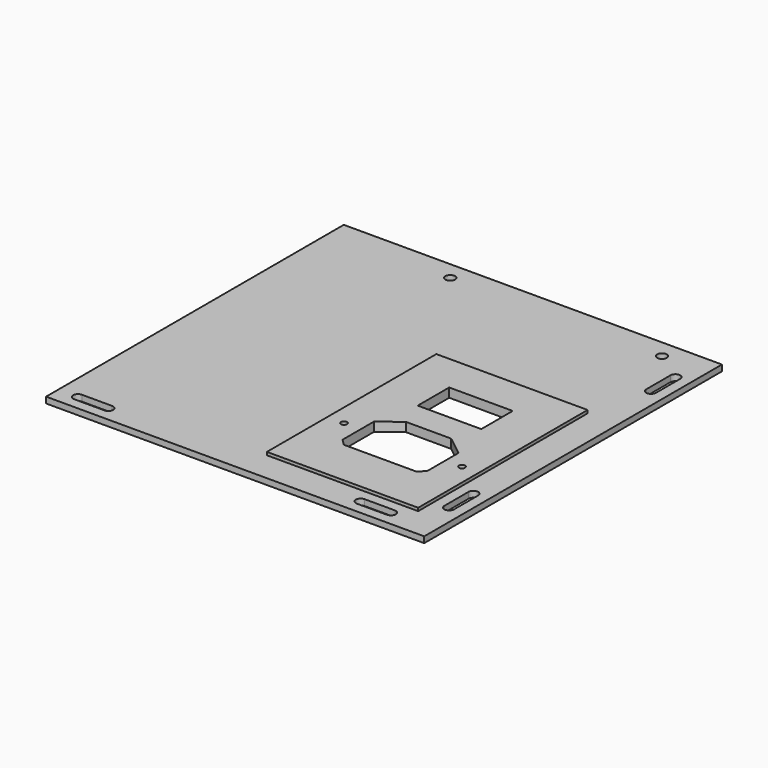
from build123d import *

# Parameters (mm, degrees)
SKETCH_W        = 125
SKETCH_H        = 123
PAD_DEPTH       = 2
SKETCH001_W     = 50
SKETCH001_H     = 70
PAD001_DEPTH    = 3
POCKET_DEPTH    = 3.001
POCKET001_DEPTH = 3.001
SKETCH004_R     = 1.6
POCKET002_DEPTH = 3.001
SKETCH005_R     = 1.6
POCKET003_DEPTH = 3.001
POCKET004_DEPTH = 3.001
SKETCH007_R     = 1
POCKET005_DEPTH = 3.001
SKETCH008_R     = 1
POCKET006_DEPTH = 3.001
SKETCH009_W     = 21
SKETCH009_H     = 13
POCKET007_DEPTH = 3.001
POCKET008_DEPTH = 3.001
POCKET009_DEPTH = 3.001


with BuildPart() as part:
    # Sketch → Pad (new body)
    with BuildSketch(Plane.XY):
        with Locations((62.5, 61.5)):
            Rectangle(SKETCH_W, SKETCH_H)
    extrude(amount=PAD_DEPTH)

    # Sketch001 → Pad001 (join)
    with BuildSketch(Plane.XY):
        with Locations((90, 45)):
            Rectangle(SKETCH001_W, SKETCH001_H)
    extrude(amount=PAD001_DEPTH)

    # Sketch002 → Pocket (cut, through all)
    with BuildSketch(Plane.XY):
        with BuildLine():
            ThreePointArc((6.55, 6.6), (4.95, 5), (6.55, 3.4))
            Line((6.55, 3.4), (16.55, 3.4))
            ThreePointArc((16.55, 3.4), (18.15, 5), (16.55, 6.6))
            Line((6.55, 6.6), (16.55, 6.6))
        make_face()
    extrude(amount=POCKET_DEPTH, mode=Mode.SUBTRACT)

    # Sketch003 → Pocket001 (cut, through all)
    with BuildSketch(Plane.XY):
        with BuildLine():
            ThreePointArc((121.6, 26.55), (120, 28.15), (118.4, 26.55))
            Line((118.4, 26.55), (118.4, 16.55))
            ThreePointArc((118.4, 16.55), (120, 14.95), (121.6, 16.55))
            Line((121.6, 26.55), (121.6, 16.55))
        make_face()
    extrude(amount=POCKET001_DEPTH, mode=Mode.SUBTRACT)

    # Sketch004 → Pocket002 (cut, through all)
    with BuildSketch(Plane.XY):
        with Locations((110, 117)):
            Circle(SKETCH004_R)
    extrude(amount=POCKET002_DEPTH, mode=Mode.SUBTRACT)

    # Sketch005 → Pocket003 (cut, through all)
    with BuildSketch(Plane.XY):
        with Locations((40, 117)):
            Circle(SKETCH005_R)
    extrude(amount=POCKET003_DEPTH, mode=Mode.SUBTRACT)

    # Sketch006 → Pocket004 (cut, through all)
    with BuildSketch(Plane.XY):
        Polygon((76, 40.43372), (82.5, 45.5), (97.5, 45.5), (104, 40.435902), (104, 27.5), (102, 25.5), (78, 25.5), (76, 27.5), align=None)
    extrude(amount=POCKET004_DEPTH, mode=Mode.SUBTRACT)

    # Sketch007 → Pocket005 (cut, through all)
    with BuildSketch(Plane.XY):
        with Locations((70.5, 35)):
            Circle(SKETCH007_R)
    extrude(amount=POCKET005_DEPTH, mode=Mode.SUBTRACT)

    # Sketch008 → Pocket006 (cut, through all)
    with BuildSketch(Plane.XY):
        with Locations((109.5, 35)):
            Circle(SKETCH008_R)
    extrude(amount=POCKET006_DEPTH, mode=Mode.SUBTRACT)

    # Sketch009 → Pocket007 (cut, through all)
    with BuildSketch(Plane.XY):
        with Locations((89.75, 61)):
            Rectangle(SKETCH009_W, SKETCH009_H)
    extrude(amount=POCKET007_DEPTH, mode=Mode.SUBTRACT)

    # Sketch010 → Pocket008 (cut, through all)
    with BuildSketch(Plane.XY):
        with BuildLine():
            ThreePointArc((100, 6.6), (98.4, 5), (100, 3.4))
            Line((100, 3.4), (110, 3.4))
            ThreePointArc((110, 3.4), (111.6, 5), (110, 6.6))
            Line((100, 6.6), (110, 6.6))
        make_face()
    extrude(amount=POCKET008_DEPTH, mode=Mode.SUBTRACT)

    # Sketch011 → Pocket009 (cut, through all)
    with BuildSketch(Plane.XY):
        with BuildLine():
            ThreePointArc((121.6, 110), (120, 111.6), (118.4, 110))
            Line((118.4, 110), (118.4, 100))
            ThreePointArc((118.4, 100), (120, 98.4), (121.6, 100))
            Line((121.6, 110), (121.6, 100))
        make_face()
    extrude(amount=POCKET009_DEPTH, mode=Mode.SUBTRACT)


solid = part.part
